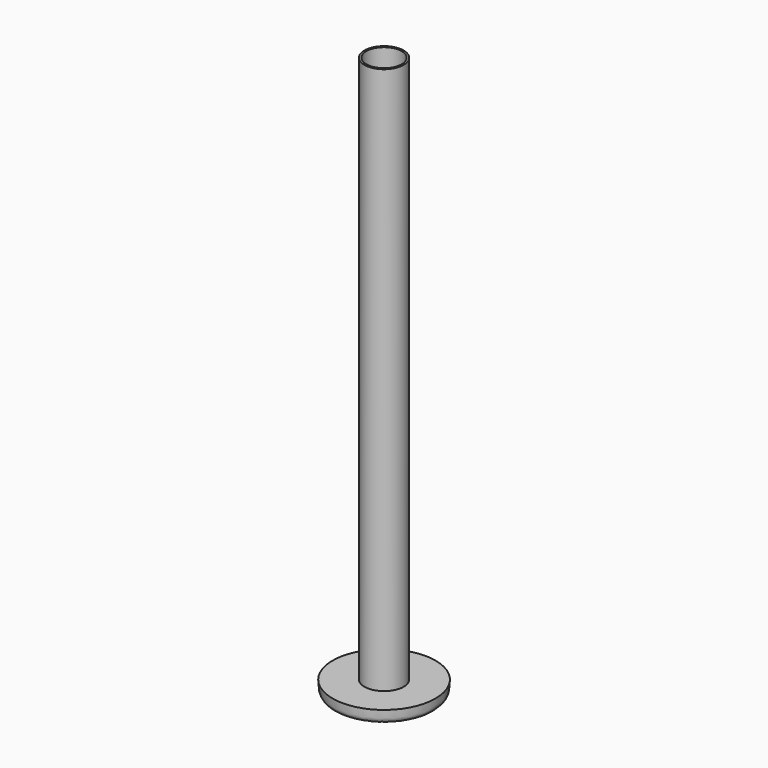
from build123d import *

# Parameters (mm, degrees)
SKETCH003_R  = 10.25
PAD001_DEPTH = 285.75
SKETCH004_R  = 9.25
HOLE_DEPTH   = 285.751
POCKET_DEPTH = 5.85
SKETCH002_R  = 9.25
PAD_DEPTH    = 5


with BuildPart() as spool:
    # Sketch003 → Pad001 (new body)
    with BuildSketch(Plane.XY):
        Circle(SKETCH003_R)
    extrude(amount=-PAD001_DEPTH)

    # Sketch004 (on Face3 of Pad001) → Hole (cut, through all)
    with BuildSketch(Plane(origin=(0, 0, -285.75), x_dir=(1, 0, 0), z_dir=(0, 0, -1))):
        Circle(SKETCH004_R)
    extrude(amount=-HOLE_DEPTH, mode=Mode.SUBTRACT)


with BuildPart() as endcap:
    # Sketch → Revolution (revolve)
    with BuildSketch(Plane.XZ):
        with BuildLine():
            Line((0, 0), (0, 7.85))
            Line((0, 7.85), (5.5, 7.85))
            Line((5.5, 7.85), (5.5, 11))
            Line((5.5, 11), (7.15, 11))
            ThreePointArc((7.15, 11), (8.93664793, 6.6866493396), (13.2499980066, 4.9))
            add(Edge.make_bspline(
                [(13.2499980066, 4.9), (17.3499980066, 4.9), (18.65, 7), (22.75, 7)],
                knots=[0, 0, 0, 0, 9.7293370792, 9.7293370792, 9.7293370792, 9.7293370792], degree=3))
            add(Edge.make_bspline(
                [(26.85, 0), (26.85, 3.5), (26.85, 7), (22.75, 7)],
                knots=[0, 0, 0, 0, 5.9288425557, 5.9288425557, 5.9288425557, 5.9288425557], degree=3))
            Line((26.85, 0), (0, 0))
        make_face()
    revolve(axis=Axis((0, 0, 0), (0, 0, 1)))

    # Sketch001 (on Face1 of Revolution) → Pocket (cut)
    with BuildSketch(Plane(origin=(0, 0, 7.85), x_dir=(-1, 0, 0), z_dir=(0, 0, 1))):
        with BuildLine():
            Line((1.75, -5.2141634037), (1.75, 5.2141634037))
            ThreePointArc((1.75, 5.2141634037), (0, 5.5), (-1.75, 5.2141634037))
            Line((-1.75, -5.2141634037), (-1.75, 5.2141634037))
            ThreePointArc((-1.75, -5.2141634037), (0, -5.5), (1.75, -5.2141634037))
        make_face()
    extrude(amount=-POCKET_DEPTH, mode=Mode.SUBTRACT)

    # Sketch002 → Pad (join)
    with BuildSketch(Plane.XY):
        Circle(SKETCH002_R)
    extrude(amount=-PAD_DEPTH)


with BuildPart() as part_mirroring:
    # Part__Mirroring: instance of EndCap
    add(endcap.part.mirror(Plane(origin=(0, 0, -142.875), x_dir=(0, 1, 0), z_dir=(0, 0, 1))))


solid = Compound([spool.part, part_mirroring.part])
